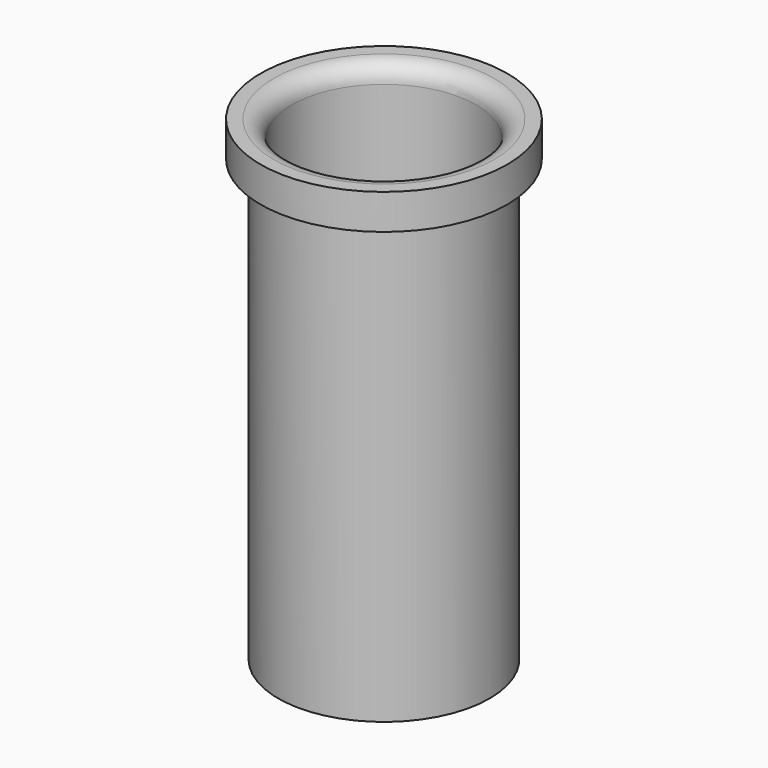
from build123d import *

# Parameters (mm, degrees)
SKETCH_R      = 6
SKETCH_R_2    = 5.25
PAD_DEPTH     = 25
SKETCH001_R   = 7
SKETCH001_R_2 = 5.25
PAD001_DEPTH  = 2
FILLET_R      = 1


with BuildPart() as part:
    # Sketch → Pad (new body)
    with BuildSketch(Plane.XY):
        Circle(SKETCH_R)
        Circle(SKETCH_R_2, mode=Mode.SUBTRACT)
    extrude(amount=PAD_DEPTH)

    # Sketch001 (on Face4 of Pad) → Pad001 (join)
    with BuildSketch(Plane.XY.offset(25)):
        Circle(SKETCH001_R)
        Circle(SKETCH001_R_2, mode=Mode.SUBTRACT)
    extrude(amount=PAD001_DEPTH)

    # Fillet
    fillet_edges = [part.edges().sort_by_distance(p)[0] for p in [
        (-5.25, 0, 27),
    ]]
    fillet(fillet_edges, radius=FILLET_R)


solid = part.part
